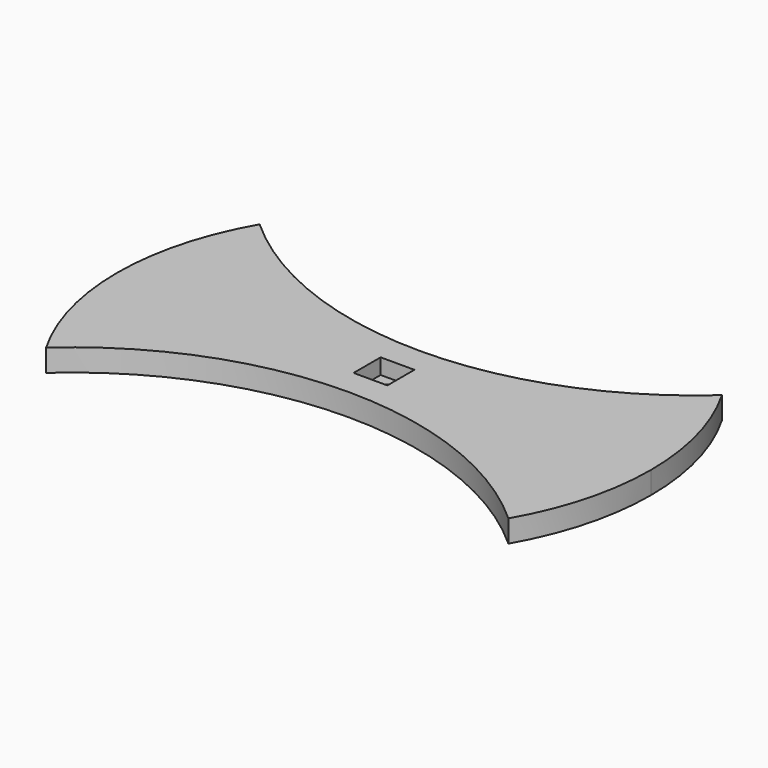
from build123d import *

# Parameters (mm, degrees)
F1_DEPTH = 12.7
F2_R     = 4.6355
F3_DEPTH = 12.7
F4_W     = 19.304
F4_H     = 19.304
F4_R     = 4.6355
F5_DEPTH = 8.89


with BuildPart() as f1:
    # F0 (on Top) → F1 (new body)
    with BuildSketch(Plane.XY):
        with BuildLine():
            ThreePointArc((131.9822715367, -76.2), (147.2070959265, -39.4440224736), (152.4, 0))
            ThreePointArc((152.4, 0), (147.2070959265, 39.4440224736), (131.9822715368, 76.2))
            ThreePointArc((131.9822715367, 76.2), (70.7106074079, 38.5384530031), (0, 25.4))
            ThreePointArc((0, 25.4), (-70.7106074079, 38.5384530031), (-131.9822715367, 76.2))
            ThreePointArc((-131.9822715368, 76.2), (-152.4, 0), (-131.9822715367, -76.2))
            ThreePointArc((-131.9822715367, -76.2), (0, -25.4), (131.9822715367, -76.2))
        make_face()
    extrude(amount=F1_DEPTH)

    # F2 (on face) → F3 (cut, through all)
    with BuildSketch(Plane.XY.offset(12.7)):
        Circle(F2_R)
    extrude(amount=-F3_DEPTH, mode=Mode.SUBTRACT)

    # F4 (on face) → F5 (cut)
    with BuildSketch(Plane.XY.offset(12.7)):
        Rectangle(F4_W, F4_H)
        Circle(F4_R, mode=Mode.SUBTRACT)
    extrude(amount=-F5_DEPTH, mode=Mode.SUBTRACT)


solid = f1.part
